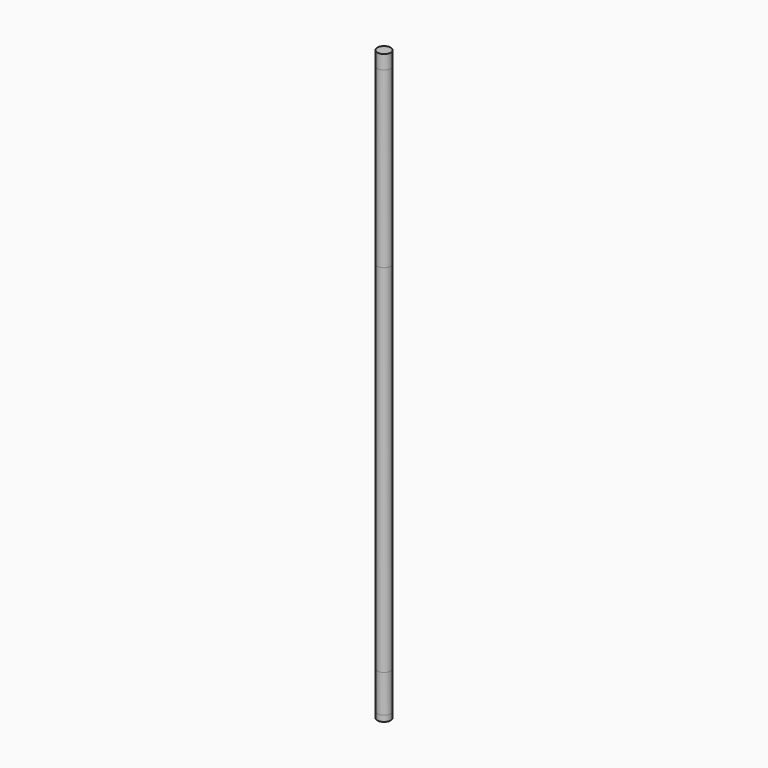
from build123d import *

# Parameters (mm, degrees)
F0_R      = 11.5
F1_DEPTH  = 10
F3_R      = 11.5
F4_DEPTH  = 64
F6_R      = 11.5
F7_DEPTH  = 606
F9_R      = 11.5
F10_DEPTH = 296
F12_R     = 11.5
F13_DEPTH = 24


with BuildPart() as f1:
    # F0 (on Top) → F1 (new body)
    with BuildSketch(Plane.XY):
        Circle(F0_R)
    extrude(amount=F1_DEPTH)


with BuildPart() as f4:
    # F3 (on offset) → F4 (new body)
    with BuildSketch(Plane.XY.offset(10)):
        Circle(F3_R)
    extrude(amount=F4_DEPTH)


with BuildPart() as f7:
    # F6 (on offset) → F7 (new body)
    with BuildSketch(Plane.XY.offset(74)):
        Circle(F6_R)
    extrude(amount=F7_DEPTH)


with BuildPart() as f10:
    # F9 (on offset) → F10 (new body)
    with BuildSketch(Plane.XY.offset(680)):
        Circle(F9_R)
    extrude(amount=F10_DEPTH)


with BuildPart() as f13:
    # F12 (on offset) → F13 (new body)
    with BuildSketch(Plane.XY.offset(976)):
        Circle(F12_R)
    extrude(amount=F13_DEPTH)


solid = Compound([f1.part, f4.part, f7.part, f10.part, f13.part])
